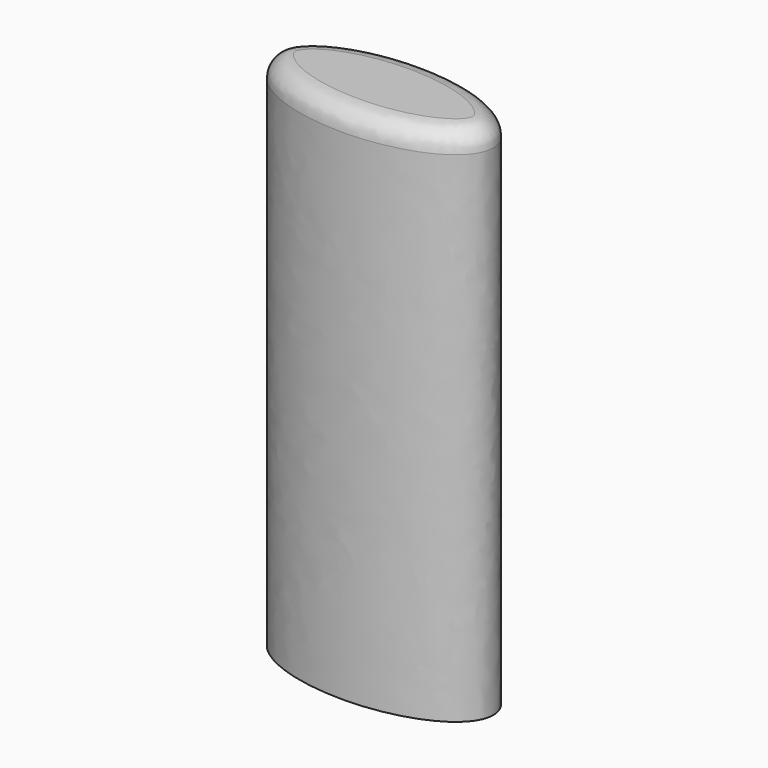
from build123d import *

# Parameters (mm, degrees)
F1_DEPTH = 63.5
F2_R     = 2.54


with BuildPart() as f1:
    # F0 (on Top) → F1 (new body)
    with BuildSketch(Plane.XY):
        with BuildLine():
            add(Edge.make_bspline(
                [(-13.342896, 0), (-13.342896, -11.184639), (6.671448, -5.59232), (26.685792, 0), (6.671448, 5.59232), (-13.342896, 11.184639), (-13.342896, 0)],
                knots=[0, 0, 0, 2.094395, 2.094395, 4.18879, 4.18879, 6.283185, 6.283185, 6.283185], degree=2, weights=[1, 0.5, 1, 0.5, 1, 0.5, 1]))
        make_face()
    extrude(amount=F1_DEPTH)

    # F2
    f2_edges = [f1.edges().sort_by_distance(p)[0] for p in [
        (13.342896, -2e-06, 63.5),
    ]]
    fillet(f2_edges, radius=F2_R)


solid = f1.part
